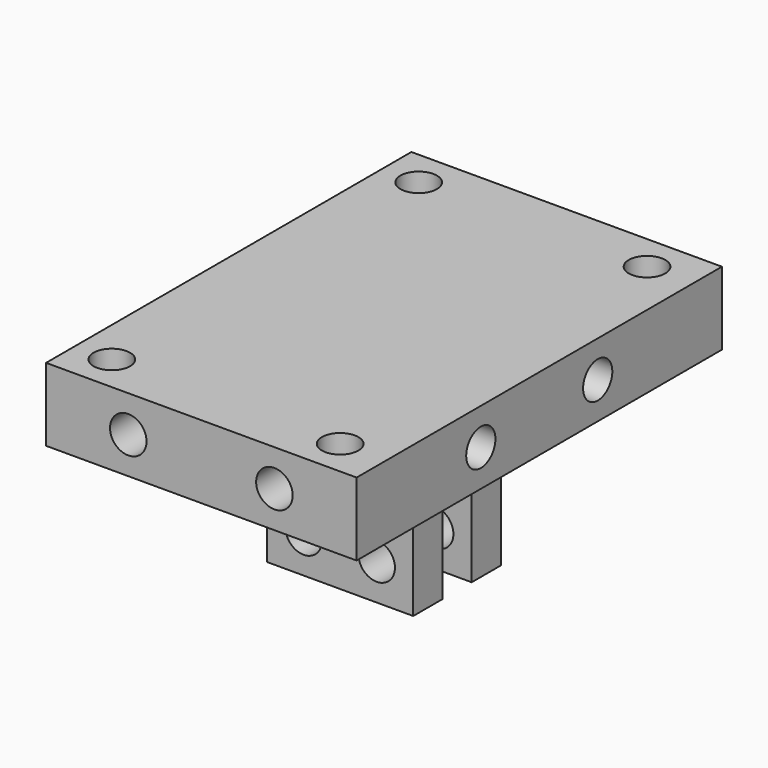
from build123d import *

# Parameters (mm, degrees)
CYLINDER021_R     = 1
CYLINDER021_DEPTH = 50
ARRAY024_X_COUNT  = 2
ARRAY024_X_PITCH  = 8
CYLINDER022_R     = 1
CYLINDER022_DEPTH = 50
ARRAY025_Y_COUNT  = 2
ARRAY025_Y_PITCH  = 8
CYLINDER020_R     = 1
CYLINDER020_DEPTH = 10
ARRAY023_X_COUNT  = 2
ARRAY023_X_PITCH  = 12.5
ARRAY023_Y_COUNT  = 2
ARRAY023_Y_PITCH  = 21
CYLINDER019_R     = 1
CYLINDER019_DEPTH = 10
ARRAY022_X_COUNT  = 2
ARRAY022_X_PITCH  = 4
ARRAY022_Z_COUNT  = 2
ARRAY022_Z_PITCH  = 4
BOX016_W          = 8
BOX016_H          = 2
BOX016_DEPTH      = 8
ARRAY021_Y_COUNT  = 2
ARRAY021_Y_PITCH  = 4
BOX015_W          = 17
BOX015_H          = 25
BOX015_DEPTH      = 4


with BuildPart() as cameramountexpansionscrewshorizontal:
    # Cylinder021 → Cylinder021 (new body)
    with BuildSketch(Plane(origin=(-4, 12.5, 27), x_dir=(1, 0, 0), z_dir=(0, -1, 0))):
        Circle(CYLINDER021_R)
    extrude(amount=CYLINDER021_DEPTH)

    # Array024 X: CameraMountExpansionScrewsHorizontal ×2


with BuildPart() as cameramountexpansionscrewshorizontal_1:
    add(cameramountexpansionscrewshorizontal.part)
    with Locations(*[(i * ARRAY024_X_PITCH, 0, 0) for i in range(1, ARRAY024_X_COUNT)]):
        add(cameramountexpansionscrewshorizontal.part)


with BuildPart() as cameraexpansionscrews:
    # Cylinder022 → Cylinder022 (new body)
    with BuildSketch(Plane(origin=(-25, -4, 27), x_dir=(0, 0, -1), z_dir=(1, 0, 0))):
        Circle(CYLINDER022_R)
    extrude(amount=CYLINDER022_DEPTH)

    # Array025 Y: CameraExpansionScrews ×2


with BuildPart() as cameraexpansionscrews_1:
    add(cameraexpansionscrews.part)
    with Locations(*[(0, i * ARRAY025_Y_PITCH, 0) for i in range(1, ARRAY025_Y_COUNT)]):
        add(cameraexpansionscrews.part)

    # Fusion010: union CameraMountExpansionScrewsHorizontal
    add(cameramountexpansionscrewshorizontal_1.part)


with BuildPart() as camerascrews:
    # Cylinder020 → Cylinder020 (new body)
    with BuildSketch(Plane(origin=(-6.5, -10.5, 21), x_dir=(1, 0, 0), z_dir=(0, 0, 1))):
        Circle(CYLINDER020_R)
    extrude(amount=CYLINDER020_DEPTH)

    # Array023 X: CameraScrews ×2


with BuildPart() as camerascrews_1:
    add(camerascrews.part)
    with Locations(*[(i * ARRAY023_X_PITCH, 0, 0) for i in range(1, ARRAY023_X_COUNT)]):
        add(camerascrews.part)

    # Array023 Y: CameraScrews ×2


with BuildPart() as camerascrews_2:
    add(camerascrews_1.part)
    with Locations(*[(0, i * ARRAY023_Y_PITCH, 0) for i in range(1, ARRAY023_Y_COUNT)]):
        add(camerascrews_1.part)


with BuildPart() as cameramountplaneconnectorscrews:
    # Cylinder019 → Cylinder019 (new body)
    with BuildSketch(Plane(origin=(2, 5, 19), x_dir=(1, 0, 0), z_dir=(0, -1, 0))):
        Circle(CYLINDER019_R)
    extrude(amount=CYLINDER019_DEPTH)

    # Array022 X: CameraMountPlaneConnectorScrews ×2


with BuildPart() as cameramountplaneconnectorscrews_1:
    add(cameramountplaneconnectorscrews.part)
    with Locations(*[(-i * ARRAY022_X_PITCH, 0, 0) for i in range(1, ARRAY022_X_COUNT)]):
        add(cameramountplaneconnectorscrews.part)

    # Array022 Z: CameraMountPlaneConnectorScrews ×2


with BuildPart() as cameramountplaneconnectorscrews_2:
    add(cameramountplaneconnectorscrews_1.part)
    with Locations(*[(0, 0, i * ARRAY022_Z_PITCH) for i in range(1, ARRAY022_Z_COUNT)]):
        add(cameramountplaneconnectorscrews_1.part)


with BuildPart() as cameramountplaneconnector:
    # Box016 → Box016 (new body)
    with BuildSketch(Plane(origin=(-4, 1, 17), x_dir=(1, 0, 0), z_dir=(0, 0, 1))):
        with Locations((4, 1)):
            Rectangle(BOX016_W, BOX016_H)
    extrude(amount=BOX016_DEPTH)

    # Cut042: cut CameraMountPlaneConnectorScrews
    add(cameramountplaneconnectorscrews_2.part, mode=Mode.SUBTRACT)

    # Array021 Y: CameraMountPlaneConnector ×2


with BuildPart() as cameramountplaneconnector_1:
    add(cameramountplaneconnector.part)
    with Locations(*[(0, -i * ARRAY021_Y_PITCH, 0) for i in range(1, ARRAY021_Y_COUNT)]):
        add(cameramountplaneconnector.part)


with BuildPart() as cameramountplane3:
    # Box015 → Box015 (new body)
    with BuildSketch(Plane(origin=(-8.5, -12.5, 25), x_dir=(1, 0, 0), z_dir=(0, 0, 1))):
        with Locations((8.5, 12.5)):
            Rectangle(BOX015_W, BOX015_H)
    extrude(amount=BOX015_DEPTH)

    # Fusion009: union CameraMountPlaneConnector
    add(cameramountplaneconnector_1.part)

    # Cut043: cut CameraScrews
    add(camerascrews_2.part, mode=Mode.SUBTRACT)

    # Cut044: cut CameraExpansionScrews
    add(cameraexpansionscrews_1.part, mode=Mode.SUBTRACT)


solid = cameramountplane3.part
